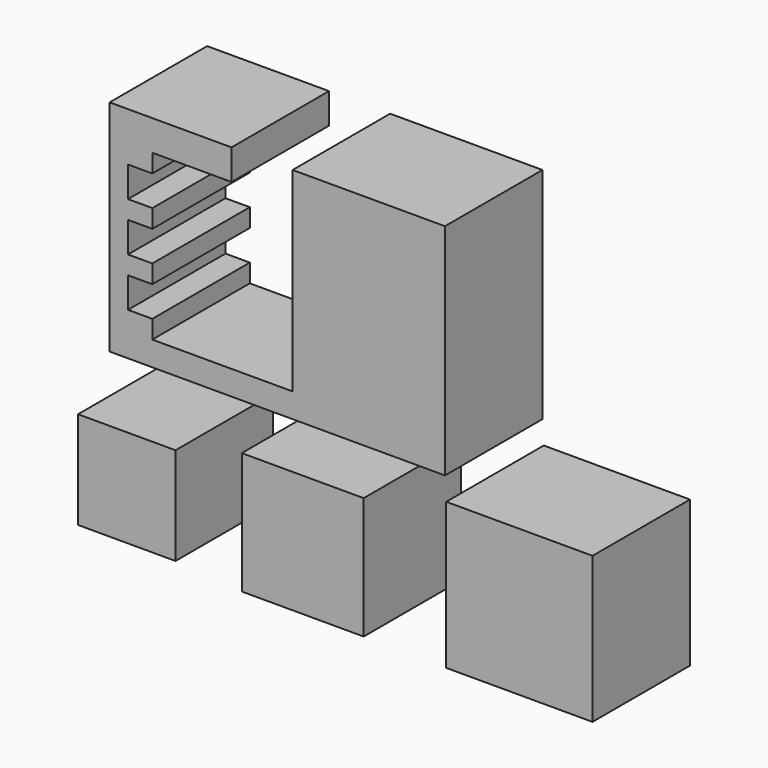
from build123d import *

# Parameters (mm, degrees)
F4_DEPTH = 25.4
F1_W     = 20.32
F1_H     = 20.32
F5_DEPTH = 25.4
F2_W     = 25.4
F2_H     = 25.4
F6_DEPTH = 25.4
F3_W     = 30.48
F3_H     = 30.48
F7_DEPTH = 25.4


with BuildPart() as f4:
    # F0 (on Front) → F4 (new body)
    with BuildSketch(Plane.XZ):
        Polygon((-34.0868, 40.64), (-59.4868, 40.64), (-59.4868, -5.089056), (10.399, -5.089056), (10.399, 0), (10.399, 40.64), (-21.351995, 40.64), (-21.351995, 6.603997), (-21.351995, 0), (-50.5968, 0), (-50.5968, 3.81), (-55.666305, 3.81), (-55.666305, 10.16), (-50.5968, 10.16), (-50.5968, 13.97), (-55.666305, 13.97), (-55.666305, 20.32), (-50.5968, 20.32), (-50.5968, 24.13), (-55.666305, 24.13), (-55.666305, 30.48), (-50.5968, 30.48), (-50.5968, 34.29), (-34.0868, 34.29), align=None)
    extrude(amount=F4_DEPTH)


with BuildPart() as f5:
    # F1 (on Front) → F5 (new body)
    with BuildSketch(Plane.XZ):
        with Locations((-55.919694, -28.889862)):
            Rectangle(F1_W, F1_H)
    extrude(amount=F5_DEPTH)


with BuildPart() as f6:
    # F2 (on Front) → F6 (new body)
    with BuildSketch(Plane.XZ):
        with Locations((-19.242092, -27.461304)):
            Rectangle(F2_W, F2_H)
    extrude(amount=F6_DEPTH)


with BuildPart() as f7:
    # F3 (on Front) → F7 (new body)
    with BuildSketch(Plane.XZ):
        with Locations((25.905791, -25.073703)):
            Rectangle(F3_W, F3_H)
    extrude(amount=F7_DEPTH)


solid = Compound([f4.part, f5.part, f6.part, f7.part])
